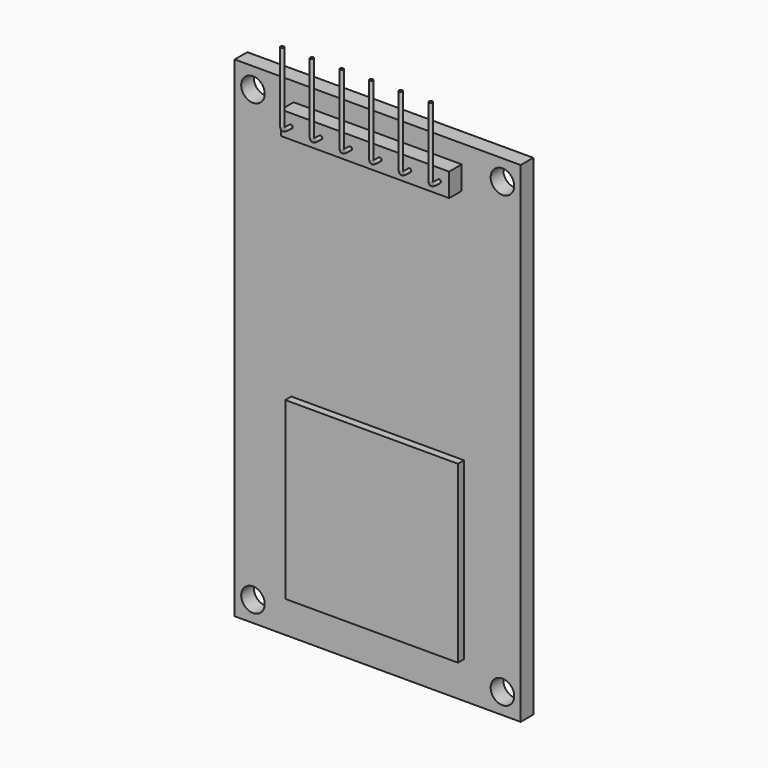
from build123d import *

# Parameters (mm, degrees)
F0_W     = 24.5
F0_H     = 42
F0_R     = 1.0080011562
F0_W_2   = 14.8
F0_H_2   = 15
F0_W_3   = 14.4
F0_H_3   = 2
F1_DEPTH = 1.35
F2_DEPTH = 2
F0_R_2   = 0.15
F4_DEPTH = 2.7


with BuildPart() as f1:
    # F0 (on Front) → F1 (new body)
    with BuildSketch(Plane.XZ):
        Rectangle(F0_W, F0_H)
        with Locations((-10.6851002201, -19.2399173975)):
            Circle(F0_R, mode=Mode.SUBTRACT)
        with Locations((0, -10.3460764512)):
            Rectangle(F0_W_2, F0_H_2, mode=Mode.SUBTRACT)
        with Locations((10.6851002201, -19.2399173975)):
            Circle(F0_R, mode=Mode.SUBTRACT)
        with Locations((-10.6851002201, 19.2399173975)):
            Circle(F0_R, mode=Mode.SUBTRACT)
        with Locations((0, 18.4101387858)):
            Rectangle(F0_W_3, F0_H_3, mode=Mode.SUBTRACT)
        with Locations((10.6851002201, 19.2399173975)):
            Circle(F0_R, mode=Mode.SUBTRACT)
    extrude(amount=F1_DEPTH)

    # F0 (on Front) → F4 (join)
    with BuildSketch(Plane.XZ):
        with Locations((0, 18.4101387858)):
            Rectangle(F0_W_3, F0_H_3)
        with Locations((-6.35, 18.4101387858)):
            Circle(F0_R_2, mode=Mode.SUBTRACT)
        with Locations((-3.81, 18.4101387858)):
            Circle(F0_R_2, mode=Mode.SUBTRACT)
        with Locations((-1.27, 18.4101387858)):
            Circle(F0_R_2, mode=Mode.SUBTRACT)
        with Locations((1.27, 18.4101387858)):
            Circle(F0_R_2, mode=Mode.SUBTRACT)
        with Locations((3.81, 18.4101387858)):
            Circle(F0_R_2, mode=Mode.SUBTRACT)
        with Locations((6.35, 18.4101387858)):
            Circle(F0_R_2, mode=Mode.SUBTRACT)
    extrude(amount=F4_DEPTH)

    # F5: sweep along a path in F3
    with BuildLine(Plane.YZ) as f5_path:
        Line((0, 18.4101387858), (-2.8, 18.4101387858))
        add(Plane.YZ * Edge.make_bspline(
            [(-2.8, 18.4101387858), (-3.1209763303, 18.4226703778), (-3.3987823023, 18.4280105882), (-3.6000391542, 18.5792639564), (-3.6256704479, 18.7714975327)],
            knots=[0, 0, 0, 0, 0.5640173841, 1, 1, 1, 1], degree=3))
        Line((-3.6256704479, 18.7714975327), (-3.6256704479, 24.7714975327))
    # F0 (on Front) → F5 (sweep)
    with BuildSketch(Plane.XZ):
        with Locations((-6.35, 18.4101387858)):
            Circle(F0_R_2)
        with Locations((-3.81, 18.4101387858)):
            Circle(F0_R_2)
        with Locations((-1.27, 18.4101387858)):
            Circle(F0_R_2)
        with Locations((1.27, 18.4101387858)):
            Circle(F0_R_2)
        with Locations((3.81, 18.4101387858)):
            Circle(F0_R_2)
        with Locations((6.35, 18.4101387858)):
            Circle(F0_R_2)
    sweep(path=f5_path.line, transition=Transition.RIGHT)


with BuildPart() as f2:
    # F0 (on Front) → F2 (new body)
    with BuildSketch(Plane.XZ):
        with Locations((0, -10.3460764512)):
            Rectangle(F0_W_2, F0_H_2)
    extrude(amount=F2_DEPTH)


solid = Compound([f1.part, f2.part])
